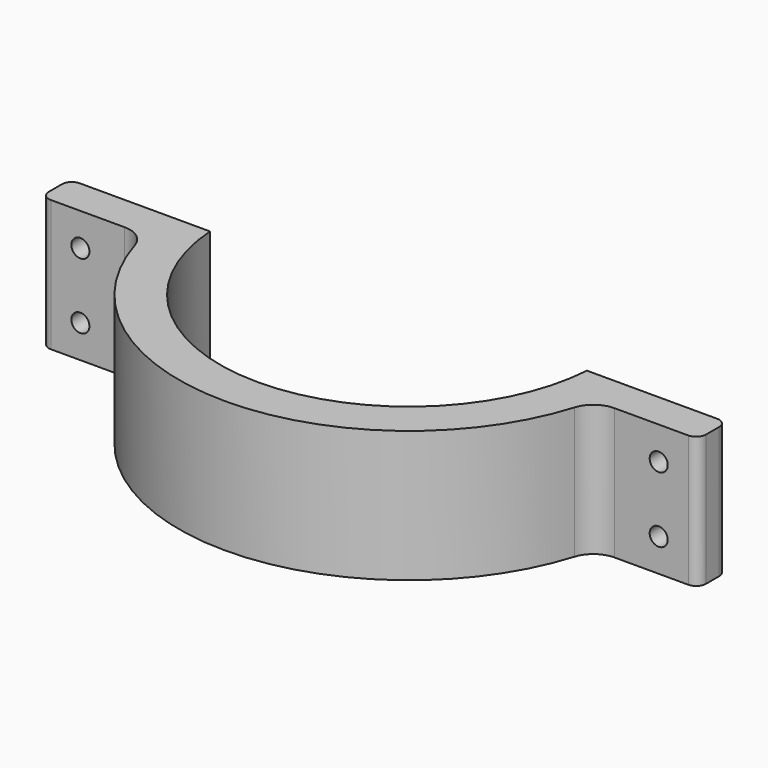
from build123d import *

# Parameters (mm, degrees)
SKETCH_R           = 70
SKETCH_R_2         = 57.5
PAD_DEPTH          = 40
SKETCH001_W        = 40
SKETCH001_H        = 30
PAD001_DEPTH       = 40
PAD001_FACE1_W     = 31.626028
PAD001_FACE1_H     = 40
POCKET_DEPTH       = 10
POCKET_FACE3_W     = 31.626028
POCKET_FACE3_H     = 40
POCKET001_DEPTH    = 10
POCKET001_FACE6_W  = 31.626028
POCKET001_FACE6_H  = 40
POCKET002_DEPTH    = 9
POCKET002_FACE11_W = 31.626028
POCKET002_FACE11_H = 40
POCKET003_DEPTH    = 9
SKETCH002_R        = 70
PAD002_DEPTH       = 40
SKETCH003_R        = 57.5
POCKET004_DEPTH    = 522
SKETCH004_W        = 150
SKETCH004_H        = 100
POCKET005_DEPTH    = 40
FILLET_R           = 8
FILLET001_R        = 3
SKETCH005_R        = 2.75
POCKET006_DEPTH    = 20


with BuildPart() as part:
    # Sketch → Pad (new body)
    with BuildSketch(Plane.XY):
        Circle(SKETCH_R)
        Circle(SKETCH_R_2, mode=Mode.SUBTRACT)
    extrude(amount=PAD_DEPTH)

    # Sketch001 (on Face4 of Pad) → Pad001 (join)
    with BuildSketch(Plane.XY.offset(40)):
        with Locations((-80, 0)):
            Rectangle(SKETCH001_W, SKETCH001_H)
        with Locations((80, 0)):
            Rectangle(SKETCH001_W, SKETCH001_H)
    extrude(amount=-PAD001_DEPTH)

    # Pad001 Face1 → Pocket (cut)
    with BuildSketch(Plane(origin=(84.186986, 15, 20), x_dir=(1, 0, 0), z_dir=(0, 1, 0))):
        Rectangle(PAD001_FACE1_W, PAD001_FACE1_H)
    extrude(amount=-POCKET_DEPTH, mode=Mode.SUBTRACT)

    # Pocket Face3 → Pocket001 (cut)
    with BuildSketch(Plane(origin=(-84.186986, 15, 20), x_dir=(1, 0, 0), z_dir=(0, 1, 0))):
        Rectangle(POCKET_FACE3_W, POCKET_FACE3_H)
    extrude(amount=-POCKET001_DEPTH, mode=Mode.SUBTRACT)

    # Pocket001 Face6 → Pocket002 (cut)
    with BuildSketch(Plane(origin=(-84.186986, 5, 20), x_dir=(1, 0, 0), z_dir=(0, 1, 0))):
        Rectangle(POCKET001_FACE6_W, POCKET001_FACE6_H)
    extrude(amount=-POCKET002_DEPTH, mode=Mode.SUBTRACT)

    # Pocket002 Face11 → Pocket003 (cut)
    with BuildSketch(Plane(origin=(84.186986, 5, 20), x_dir=(1, 0, 0), z_dir=(0, 1, 0))):
        Rectangle(POCKET002_FACE11_W, POCKET002_FACE11_H)
    extrude(amount=-POCKET003_DEPTH, mode=Mode.SUBTRACT)

    # Sketch002 (on Face2 of Pocket003) → Pad002 (join)
    with BuildSketch(Plane(origin=(0, 0, 0), x_dir=(1, 0, 0), z_dir=(0, 0, -1))):
        Circle(SKETCH002_R)
    extrude(amount=-PAD002_DEPTH)

    # Sketch003 (on Face8 of Pad002) → Pocket004 (cut)
    with BuildSketch(Plane(origin=(0, 0, 0), x_dir=(1, 0, 0), z_dir=(0, 0, -1))):
        Circle(SKETCH003_R)
    extrude(amount=-POCKET004_DEPTH, mode=Mode.SUBTRACT)

    # Sketch004 (on Face5 of Pocket004) → Pocket005 (cut)
    with BuildSketch(Plane(origin=(0, 0, 0), x_dir=(1, 0, 0), z_dir=(0, 0, -1))):
        with Locations((0, -46)):
            Rectangle(SKETCH004_W, SKETCH004_H)
    extrude(amount=-POCKET005_DEPTH, mode=Mode.SUBTRACT)

    # Fillet
    fillet_edges = [part.edges().sort_by_distance(p)[0] for p in [
        (-68.373972, -15, 20),
        (68.373972, -15, 20),
    ]]
    fillet(fillet_edges, radius=FILLET_R)

    # Fillet001
    fillet001_edges = [part.edges().sort_by_distance(p)[0] for p in [
        (100, -15, 20),
        (100, -4, 20),
        (-100, -15, 20),
        (-100, -4, 20),
    ]]
    fillet(fillet001_edges, radius=FILLET001_R)

    # Sketch005 (on Face10 of Fillet001) → Pocket006 (cut)
    with BuildSketch(Plane.XZ.offset(15)):
        with Locations((-88, 30)):
            Circle(SKETCH005_R)
        with Locations((-88, 10)):
            Circle(SKETCH005_R)
        with Locations((88, 30)):
            Circle(SKETCH005_R)
        with Locations((88, 10)):
            Circle(SKETCH005_R)
    extrude(amount=-POCKET006_DEPTH, mode=Mode.SUBTRACT)


solid = part.part
